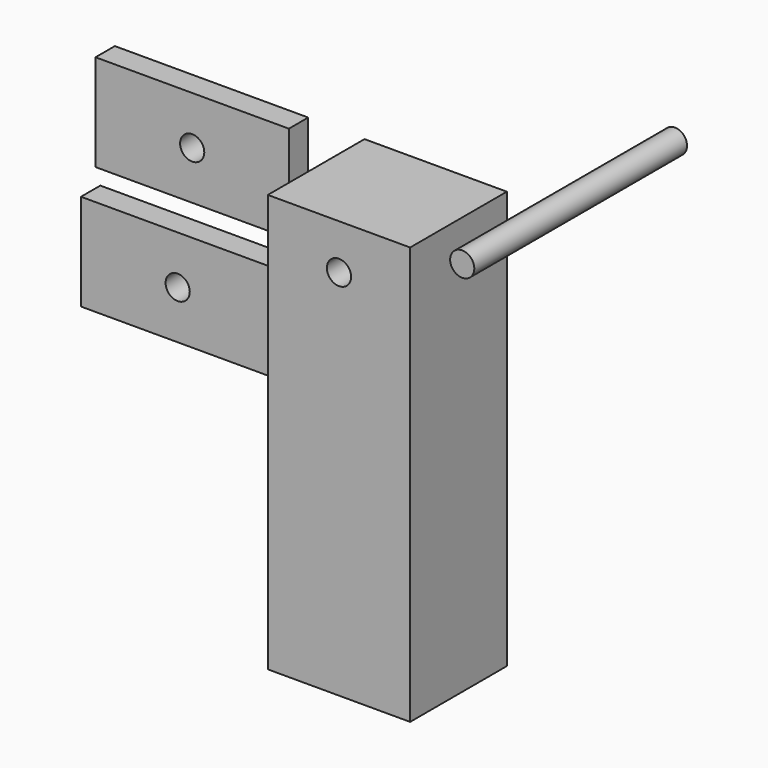
from build123d import *

# Parameters (mm, degrees)
F0_W          = 29.435682
F0_H          = 86.395636
F1_DEPTH      = 25
F3_D          = 5
F4_R          = 2.5
F5_DEPTH      = 40
F5_DEPTH_BACK = 15
F6_W          = 40
F6_H          = 20
F6_R          = 2.5
F7_DEPTH      = 5
F8_W          = 40
F8_H          = 20
F8_R          = 2.5
F9_DEPTH      = 5


with BuildPart() as f1:
    # F0 (on Front) → F1 (new body)
    with BuildSketch(Plane.XZ):
        Rectangle(F0_W, F0_H)
    extrude(amount=F1_DEPTH)

    # F3 (through all)
    with Locations(Plane.XZ.offset(25)):
        with Locations((0, 33.871471)):
            Hole(F3_D / 2)


with BuildPart() as f5:
    # F4 (on Front) → F5 (new body, two sides)
    with BuildSketch(Plane.XZ) as f5_sk:
        with Locations((37.49134, 53.678397)):
            Circle(F4_R)
    extrude(amount=F5_DEPTH)
    extrude(f5_sk.sketch, amount=-F5_DEPTH_BACK)


with BuildPart() as f7:
    # F6 (on Front) → F7 (new body)
    with BuildSketch(Plane.XZ):
        with Locations((-50.362385, 30.009104)):
            Rectangle(F6_W, F6_H)
        with Locations((-50.362385, 30.009104)):
            Circle(F6_R, mode=Mode.SUBTRACT)
    extrude(amount=-F7_DEPTH)


with BuildPart() as f9:
    # F8 (on Front) → F9 (new body)
    with BuildSketch(Plane.XZ):
        with Locations((-53.365597, 3.631675)):
            Rectangle(F8_W, F8_H)
        with Locations((-53.365597, 3.631675)):
            Circle(F8_R, mode=Mode.SUBTRACT)
    extrude(amount=-F9_DEPTH)


solid = Compound([f1.part, f5.part, f7.part, f9.part])
